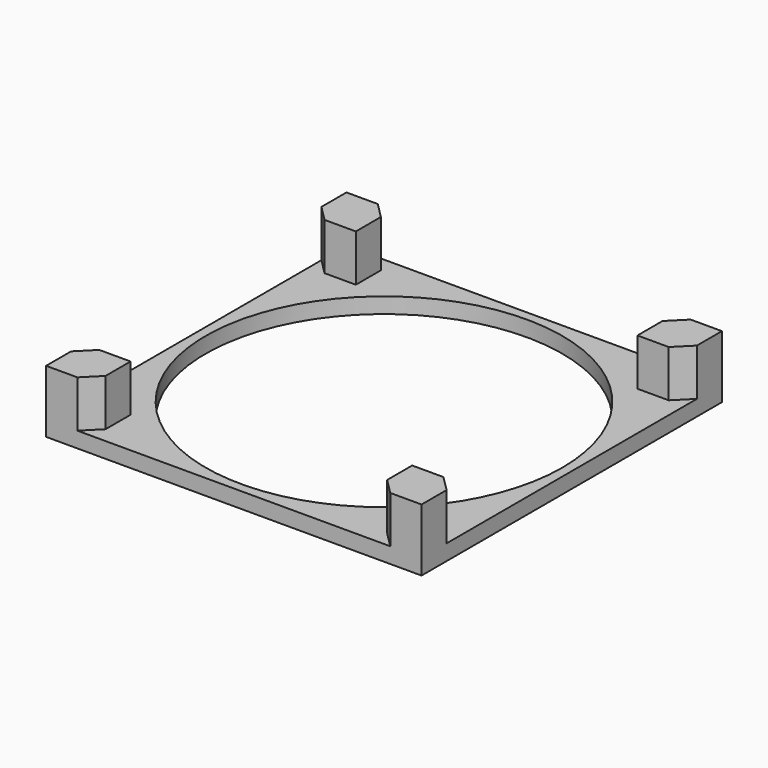
from build123d import *

# Parameters (mm, degrees)
F0_R     = 57
F1_DEPTH = 5
F0_W     = 15
F0_H     = 15
F2_DEPTH = 20
F3_SIZE  = 5


with BuildPart() as f1:
    # F0 (on Top) → F1 (new body)
    with BuildSketch(Plane.XY):
        Polygon((-45, -60), (45, -60), (45, -45), (60, -45), (60, 45), (45, 45), (45, 60), (-45, 60), (-45, 45), (-60, 45), (-60, -45), (-45, -45), align=None)
        Circle(F0_R, mode=Mode.SUBTRACT)
    extrude(amount=F1_DEPTH)

    # F0 (on Top) → F2 (join)
    with BuildSketch(Plane.XY):
        with Locations((-52.5, 52.5)):
            Rectangle(F0_W, F0_H)
        with Locations((52.5, 52.5)):
            Rectangle(F0_W, F0_H)
        with Locations((52.5, -52.5)):
            Rectangle(F0_W, F0_H)
        with Locations((-52.5, -52.5)):
            Rectangle(F0_W, F0_H)
    extrude(amount=F2_DEPTH)

    # F3
    f3_edges = [f1.edges().sort_by_distance(p)[0] for p in [
        (-60, -45, 12.5),
        (-45, -60, 12.5),
        (45, -60, 12.5),
        (60, -45, 12.5),
        (45, 60, 12.5),
        (60, 45, 12.5),
        (-60, 45, 12.5),
        (-45, 60, 12.5),
    ]]
    chamfer(f3_edges, length=F3_SIZE)


solid = f1.part
